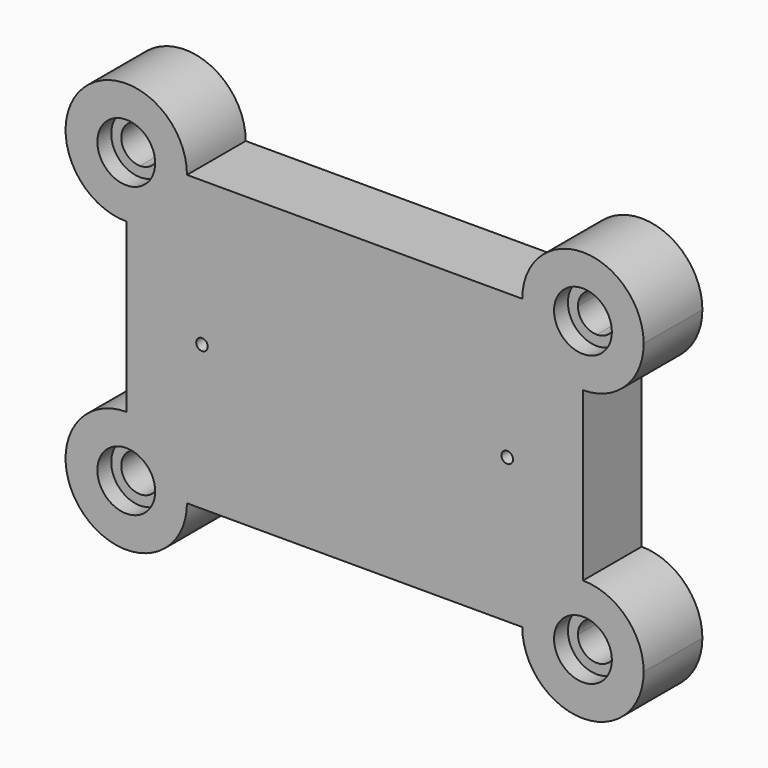
from build123d import *

# Parameters (mm, degrees)
F1_DEPTH = 6.35
F2_R     = 2.5
F3_DEPTH = 1.5
F4_R     = 0.5
F5_DEPTH = 25.4


with BuildPart() as f1:
    # F0 (on Front) → F1 (new body)
    with BuildSketch(Plane.XZ):
        with BuildLine():
            ThreePointArc((0, 1.635), (1.1561195872, 1.1561195872), (1.635, 0))
            Line((1.635, 0), (5.25, 0))
            ThreePointArc((5.25, 0), (3.7123106012, 3.7123106012), (0, 5.25))
            Line((0, 5.25), (0, 1.635))
        make_face()
        with BuildLine():
            Line((5.25, 0), (1.635, 0))
            ThreePointArc((1.635, 0), (-1.1561195872, -1.1561195872), (0, 1.635))
            Line((0, 1.635), (0, 5.25))
            ThreePointArc((0, 5.25), (-3.7123106012, -3.7123106012), (5.25, 0))
        make_face()
        with BuildLine():
            ThreePointArc((0, 5.25), (3.7123106012, 3.7123106012), (5.25, 0))
            Line((5.25, 0), (34.25, 0))
            ThreePointArc((34.25, 0), (35.7876893988, 3.7123106012), (39.5, 5.25))
            Line((39.5, 5.25), (39.5, 19.75))
            ThreePointArc((39.5, 19.75), (35.7876893988, 21.2876893988), (34.25, 25))
            Line((34.25, 25), (5.25, 25))
            ThreePointArc((5.25, 25), (3.7123106012, 21.2876893988), (0, 19.75))
            Line((0, 19.75), (0, 5.25))
        make_face()
        with BuildLine():
            ThreePointArc((39.5, 5.25), (35.7876893988, 3.7123106012), (34.25, 0))
            Line((34.25, 0), (37.865, 0))
            ThreePointArc((37.865, 0), (38.3438804128, 1.1561195872), (39.5, 1.635))
            Line((39.5, 1.635), (39.5, 5.25))
        make_face()
        with BuildLine():
            Line((37.865, 0), (34.25, 0))
            ThreePointArc((34.25, 0), (39.5, -5.25), (44.75, 0))
            ThreePointArc((44.75, 0), (43.2123106012, 3.7123106012), (39.5, 5.25))
            Line((39.5, 5.25), (39.5, 1.635))
            ThreePointArc((39.5, 1.635), (40.6561195872, 1.1561195872), (41.135, 0))
            ThreePointArc((41.135, 0), (39.5, -1.635), (37.865, 0))
        make_face()
        with BuildLine():
            ThreePointArc((5.25, 25), (-3.7123106012, 28.7123106012), (0, 19.75))
            Line((0, 19.75), (0, 23.365))
            ThreePointArc((0, 23.365), (-1.1561195872, 26.1561195872), (1.635, 25))
            Line((1.635, 25), (5.25, 25))
        make_face()
        with BuildLine():
            Line((0, 23.365), (0, 19.75))
            ThreePointArc((0, 19.75), (3.7123106012, 21.2876893988), (5.25, 25))
            Line((5.25, 25), (1.635, 25))
            ThreePointArc((1.635, 25), (1.1561195872, 23.8438804128), (0, 23.365))
        make_face()
        with BuildLine():
            ThreePointArc((34.25, 25), (35.7876893988, 21.2876893988), (39.5, 19.75))
            Line((39.5, 19.75), (39.5, 23.365))
            ThreePointArc((39.5, 23.365), (38.3438804128, 23.8438804128), (37.865, 25))
            Line((37.865, 25), (34.25, 25))
        make_face()
        with BuildLine():
            Line((39.5, 23.365), (39.5, 19.75))
            ThreePointArc((39.5, 19.75), (43.2123106012, 21.2876893988), (44.75, 25))
            ThreePointArc((44.75, 25), (39.5, 30.25), (34.25, 25))
            Line((34.25, 25), (37.865, 25))
            ThreePointArc((37.865, 25), (39.5, 26.635), (41.135, 25))
            ThreePointArc((41.135, 25), (40.6561195872, 23.8438804128), (39.5, 23.365))
        make_face()
    extrude(amount=F1_DEPTH)

    # F2 (on face) → F3 (cut)
    with BuildSketch(Plane.XZ.offset(6.35)):
        with Locations((0, 25)):
            Circle(F2_R)
        with Locations((39.5, 25)):
            Circle(F2_R)
        with Locations((39.5, 0)):
            Circle(F2_R)
        Circle(F2_R)
    extrude(amount=-F3_DEPTH, mode=Mode.SUBTRACT)

    # F4 (on face) → F5 (cut)
    with BuildSketch(Plane(origin=(0, 0, 0), x_dir=(-1, 0, 0), z_dir=(0, 1, 0))):
        with Locations((-32.95, 12.5)):
            Circle(F4_R)
        with BuildLine():
            ThreePointArc((-6.05, 12.5), (-6.55, 13), (-7.05, 12.5))
            ThreePointArc((-7.05, 12.5), (-6.55, 12), (-6.05, 12.5))
        make_face()
    extrude(amount=-F5_DEPTH, mode=Mode.SUBTRACT)


solid = f1.part
